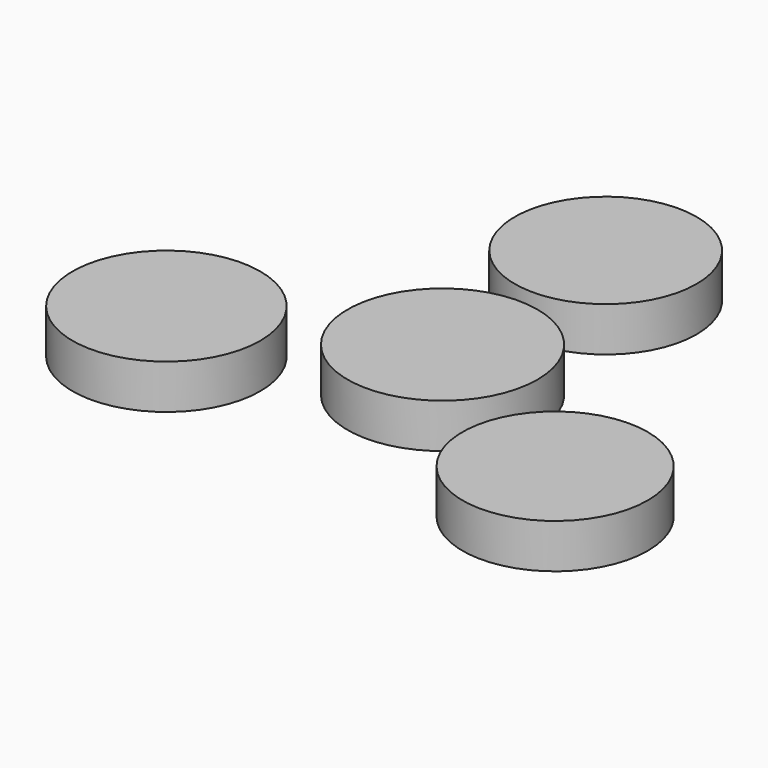
from build123d import *

# Parameters (mm, degrees)
F0_R     = 14.31906
F0_R_2   = 14.681001
F0_R_3   = 14.055033
F0_R_4   = 14.521232
F1_DEPTH = 6.858


with BuildPart() as f1:
    # F0 (on Top) → F1 (new body)
    with BuildSketch(Plane.XY):
        with Locations((30.477403, -16.343122)):
            Circle(F0_R)
        Circle(F0_R_2)
        with Locations((0, 31.520817)):
            Circle(F0_R_3)
        with Locations((-32.314926, -12.96921)):
            Circle(F0_R_4)
    extrude(amount=F1_DEPTH)


solid = f1.part
